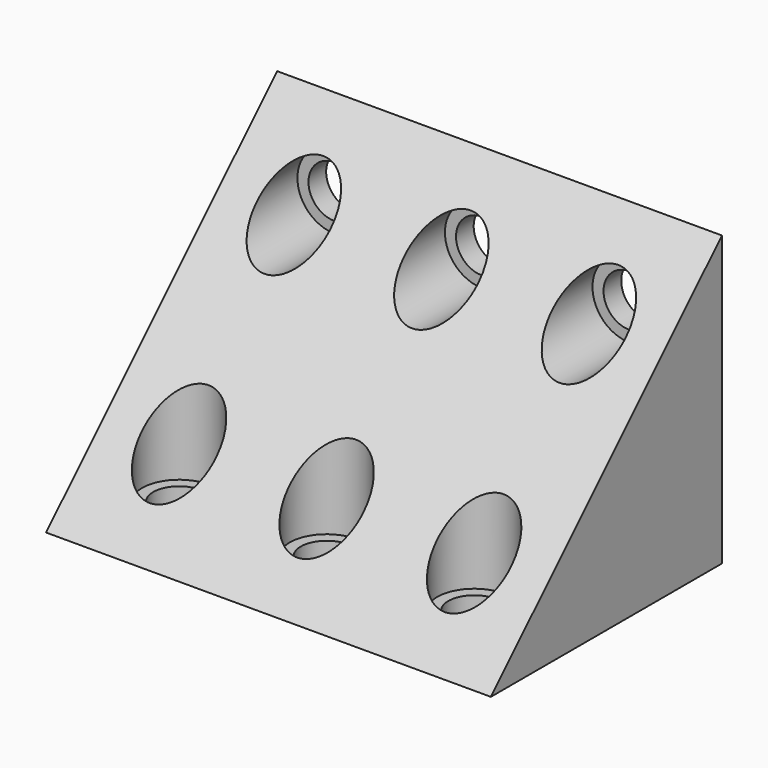
from build123d import *

# Parameters (mm, degrees)
F1_DEPTH      = 30.15
F1_DEPTH_BACK = 30.15
F2_R          = 3.5
F3_DEPTH      = 25
F4_START      = 3
F2_R_2        = 5
F4_DEPTH      = 22
F5_R          = 3.5
F6_DEPTH      = 25
F7_START      = 3
F5_R_2        = 5
F7_DEPTH      = 22


with BuildPart() as f1:
    # F0 (on Right) → F1 (new body, two sides)
    with BuildSketch(Plane.YZ) as f1_sk:
        Polygon((-39.15, 0), (0, 0), (0, 39.15), align=None)
    extrude(amount=F1_DEPTH)
    extrude(f1_sk.sketch, amount=-F1_DEPTH_BACK)

    # F2 (on Front) → F3 (cut)
    with BuildSketch(Plane.XZ):
        with Locations((-20, 29.3)):
            Circle(F2_R)
        with Locations((0, 29.3)):
            Circle(F2_R)
        with Locations((20, 29.3)):
            Circle(F2_R)
    extrude(amount=F3_DEPTH, mode=Mode.SUBTRACT)

    # F2 (on Front) → F4 (cut)
    with BuildSketch(Plane.XZ.offset(F4_START)):
        with Locations((20, 29.3)):
            Circle(F2_R_2)
        with Locations((20, 29.3)):
            Circle(F2_R, mode=Mode.SUBTRACT)
        with Locations((0, 29.3)):
            Circle(F2_R_2)
        with Locations((0, 29.3)):
            Circle(F2_R, mode=Mode.SUBTRACT)
        with Locations((-20, 29.3)):
            Circle(F2_R_2)
        with Locations((-20, 29.3)):
            Circle(F2_R, mode=Mode.SUBTRACT)
    extrude(amount=F4_DEPTH, mode=Mode.SUBTRACT)

    # F5 (on Top) → F6 (cut)
    with BuildSketch(Plane.XY):
        with Locations((20, -29.3)):
            Circle(F5_R)
        with Locations((0, -29.3)):
            Circle(F5_R)
        with Locations((-20, -29.3)):
            Circle(F5_R)
    extrude(amount=F6_DEPTH, mode=Mode.SUBTRACT)

    # F5 (on Top) → F7 (cut)
    with BuildSketch(Plane.XY.offset(F7_START)):
        with Locations((-20, -29.3)):
            Circle(F5_R_2)
        with Locations((-20, -29.3)):
            Circle(F5_R, mode=Mode.SUBTRACT)
        with Locations((0, -29.3)):
            Circle(F5_R_2)
        with Locations((0, -29.3)):
            Circle(F5_R, mode=Mode.SUBTRACT)
        with Locations((20, -29.3)):
            Circle(F5_R_2)
        with Locations((20, -29.3)):
            Circle(F5_R, mode=Mode.SUBTRACT)
    extrude(amount=F7_DEPTH, mode=Mode.SUBTRACT)


solid = f1.part
